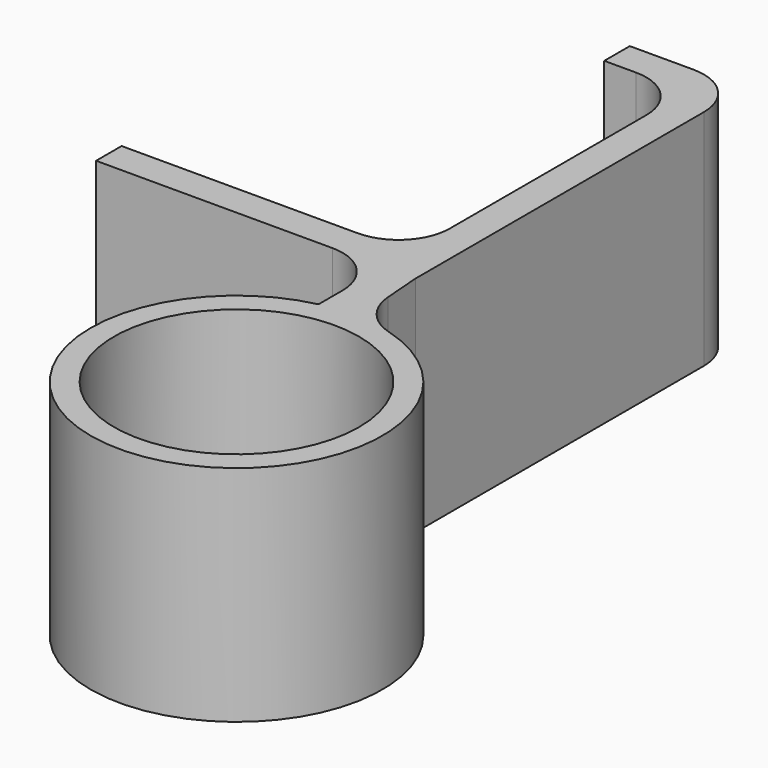
from build123d import *

# Parameters (mm, degrees)
F0_R     = 19.2
F1_DEPTH = 35


with BuildPart() as f1:
    # F0 (on Top) → F1 (new body)
    with BuildSketch(Plane.XY):
        with BuildLine():
            Line((-45, -2.86649), (-45, -7.86649))
            Line((-45, -7.86649), (-8, -7.86649))
            ThreePointArc((-8, -7.86649), (-2.343146, -10.209635), (0, -15.86649))
            Line((0, -15.86649), (0, -20.559997))
            ThreePointArc((0, -20.559997), (4.35722, -65.717451), (11.24603, -20.876339))
            ThreePointArc((11.24603, -20.876339), (7.238353, -18.244382), (5.455374, -13.793577))
            Line((5.455374, -13.793577), (5, -7.86649))
            Line((5, -7.86649), (5, 48.63351))
            ThreePointArc((5, 48.63351), (2.656854, 54.290365), (-3, 56.63351))
            Line((-3, 56.63351), (-13, 56.63351))
            Line((-13, 56.63351), (-13, 51.63351))
            Line((-13, 51.63351), (-8, 51.63351))
            ThreePointArc((-8, 51.63351), (-2.343146, 49.290365), (0, 43.63351))
            Line((0, 43.63351), (0, 5.13351))
            ThreePointArc((0, 5.13351), (-2.343146, -0.523344), (-8, -2.86649))
            Line((-8, -2.86649), (-45, -2.86649))
        make_face()
        with Locations((5, -42.86649)):
            Circle(F0_R, mode=Mode.SUBTRACT)
    extrude(amount=F1_DEPTH)


solid = f1.part
